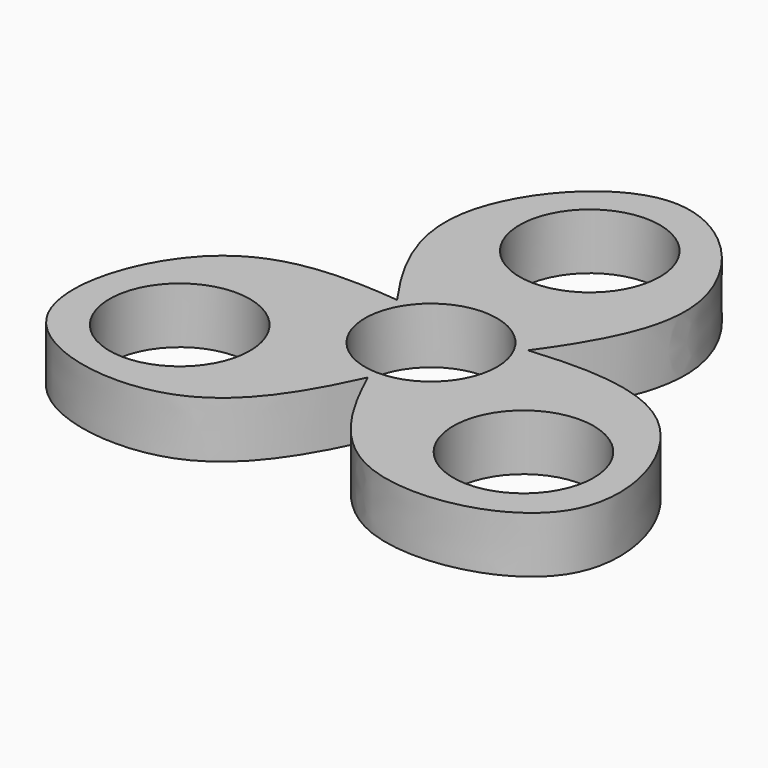
from build123d import *

# Parameters (mm, degrees)
F2_DEPTH = 10
F1_R     = 12.4972501237
F3_DEPTH = 10
F5_COUNT = 3
F7_R     = 11.7564956946
F8_DEPTH = 25


with BuildPart() as f2:
    # F0 (on Top) → F2 (new body)
    with BuildSketch(Plane.XY):
        with BuildLine():
            add(Edge.make_bspline(
                [(-6.4669726416, 0), (-14.5083259359, 10.6529102033), (-29.9083676831, 31.0543595436), (-0.0986403159, 64.9506774693), (30.7475860755, 31.1456715655), (15.1734467914, 10.6605848326), (7.0685539395, 0)],
                knots=[0, 0, 0, 0, 0.2606421354, 0.4991572462, 0.7393578687, 1, 1, 1, 1], degree=3))
            Line((-6.4669726416, 0), (7.0685539395, 0))
        make_face()
    extrude(amount=F2_DEPTH)

    # F1 (on face) → F3 (cut)
    with BuildSketch(Plane.XY):
        with Locations((0, 35.3427641094)):
            Circle(F1_R)
    extrude(amount=F3_DEPTH, mode=Mode.SUBTRACT)


with BuildPart() as f5_1:
    # F5: instance of F2
    add(f2.part.rotate(Axis((0, 0, 13.7014295906), (0, 0, 1)), 1 * 360 / F5_COUNT))


with BuildPart() as f5_2:
    # F5: instance of F2
    add(f2.part.rotate(Axis((0, 0, 13.7014295906), (0, 0, 1)), 2 * 360 / F5_COUNT))


with BuildPart() as f2_1:
    add(f2.part)

    # F6: union F5_2, F5_1
    add(f5_2.part)
    add(f5_1.part)

    # F7 (on face) → F8 (cut)
    with BuildSketch(Plane.XY.offset(10)):
        Circle(F7_R)
    extrude(amount=-F8_DEPTH, mode=Mode.SUBTRACT)


solid = f2_1.part
